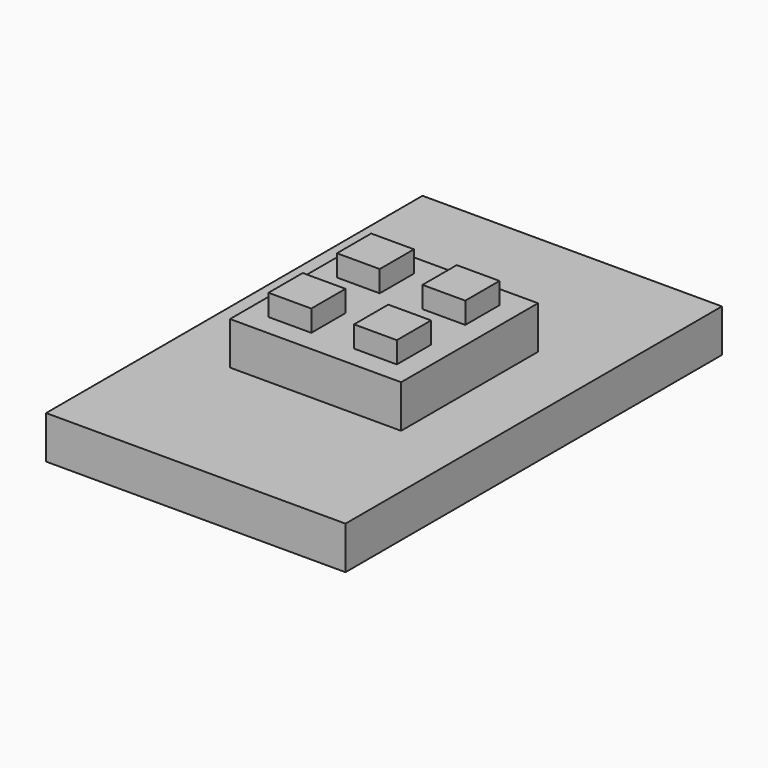
from build123d import *

# Parameters (mm, degrees)
F0_W     = 70
F0_H     = 110
F1_DEPTH = 10
F2_W     = 40
F2_H     = 40
F3_DEPTH = 10
F4_W     = 10
F4_H     = 10
F5_DEPTH = 5


with BuildPart() as f1:
    # F0 (on Top) → F1 (new body)
    with BuildSketch(Plane.XY):
        Rectangle(F0_W, F0_H)
    extrude(amount=F1_DEPTH)

    # F2 (on face) → F3 (join)
    with BuildSketch(Plane.XY.offset(10)):
        Rectangle(F2_W, F2_H)
    extrude(amount=F3_DEPTH)

    # F4 (on face) → F5 (join)
    with BuildSketch(Plane.XY.offset(20)):
        with Locations((-10, 10)):
            Rectangle(F4_W, F4_H)
        with Locations((10, 10)):
            Rectangle(F4_W, F4_H)
        with Locations((10, -10)):
            Rectangle(F4_W, F4_H)
        with Locations((-10, -10)):
            Rectangle(F4_W, F4_H)
    extrude(amount=F5_DEPTH)


solid = f1.part
